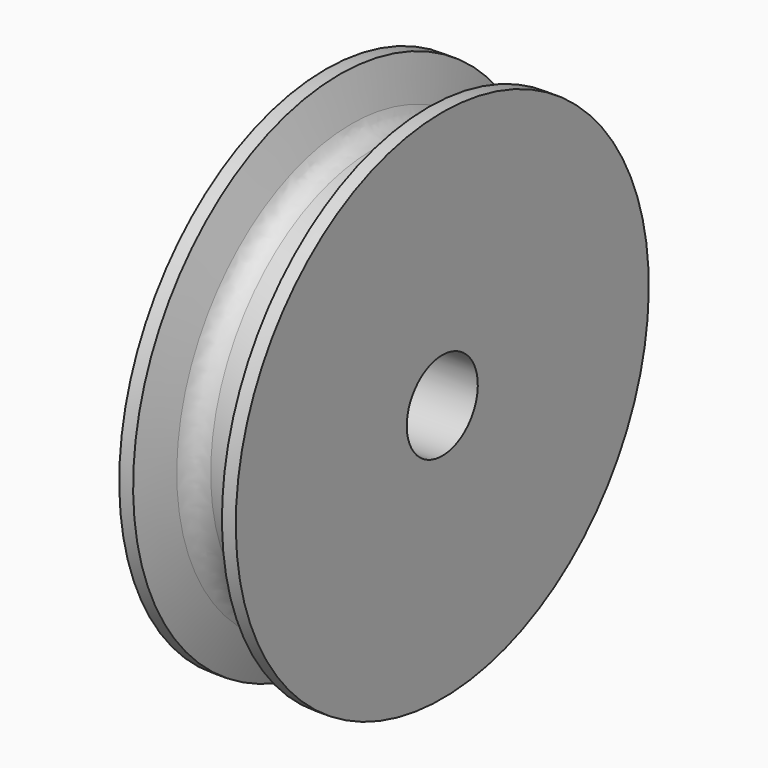
from build123d import *

# Parameters (mm, degrees)
F2_R = 2
F3_R = 2


with BuildPart() as f1:
    # F0 (on Front) → F1 (revolve)
    with BuildSketch(Plane.XZ):
        Polygon((0, 18.25), (0, 4), (5.25, 4), (5.25, 23.25), (4, 23.25), (2.5, 18.25), align=None)
        Polygon((-5.25, 4), (0, 4), (0, 18.25), (-2.5, 18.25), (-4, 23.25), (-5.25, 23.25), align=None)
    revolve(axis=Axis((0.717638, 0, 0), (1, 0, 0)))

    # F2
    f2_edges = [f1.edges().sort_by_distance(p)[0] for p in [
        (2.5, 0, -18.25),
    ]]
    fillet(f2_edges, radius=F2_R)

    # F3
    f3_edges = [f1.edges().sort_by_distance(p)[0] for p in [
        (-2.5, 0, -18.25),
    ]]
    fillet(f3_edges, radius=F3_R)


solid = f1.part
